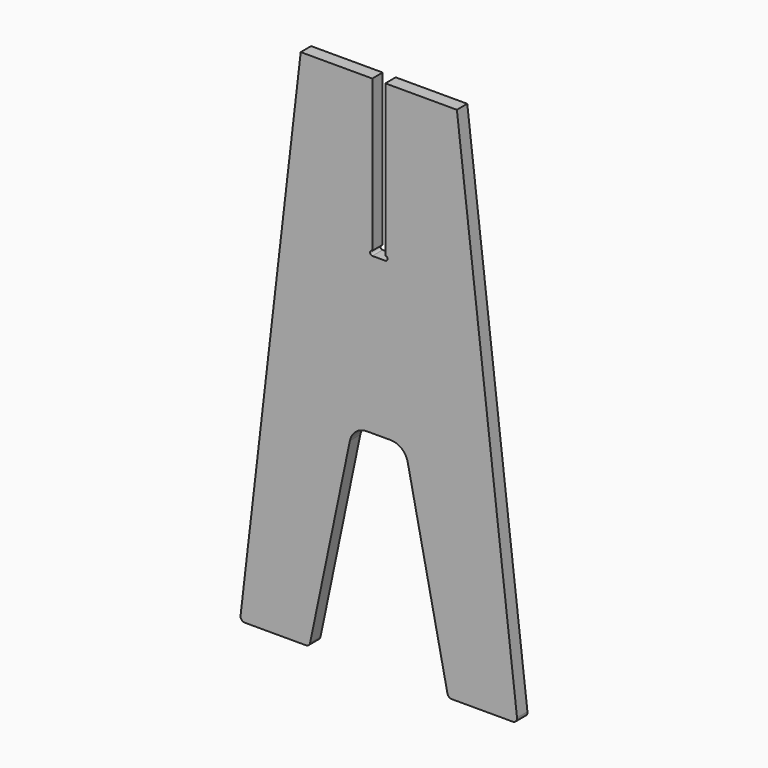
from build123d import *

# Parameters (mm, degrees)
F1_DEPTH = 19.05


with BuildPart() as f1:
    # F0 (on Front) → F1 (new body)
    with BuildSketch(Plane.XZ):
        with BuildLine():
            Line((-114.3, 457.2), (-202.373318, -297.714158))
            ThreePointArc((-202.373318, -297.714158), (-200.809256, -302.67196), (-196.066097, -304.8))
            Line((-196.066097, -304.8), (-106.763423, -304.8))
            ThreePointArc((-106.763423, -304.8), (-102.757269, -303.376786), (-100.546898, -299.74511))
            Line((-100.546898, -299.74511), (-42.312409, -20.219562))
            ThreePointArc((-42.312409, -20.219562), (-33.470926, -5.692855), (-17.446306, 0))
            Line((-17.446306, 0), (17.446306, 0))
            ThreePointArc((17.446306, 0), (33.470926, -5.692855), (42.312409, -20.219562))
            Line((42.312409, -20.219562), (100.546898, -299.74511))
            ThreePointArc((100.546898, -299.74511), (102.757269, -303.376786), (106.763423, -304.8))
            Line((106.763423, -304.8), (196.066097, -304.8))
            ThreePointArc((196.066097, -304.8), (200.809256, -302.67196), (202.373318, -297.714158))
            Line((202.373318, -297.714158), (114.3, 457.2))
            Line((114.3, 457.2), (9.525, 457.2))
            Line((9.525, 457.2), (9.525, 235.204))
            ThreePointArc((9.525, 235.204), (12.827, 231.902), (9.525, 228.6))
            Line((9.525, 228.6), (-9.525, 228.6))
            ThreePointArc((-9.525, 228.6), (-12.827, 231.902), (-9.525, 235.204))
            Line((-9.525, 235.204), (-9.525, 457.2))
            Line((-9.525, 457.2), (-114.3, 457.2))
        make_face()
    extrude(amount=F1_DEPTH)


solid = f1.part
